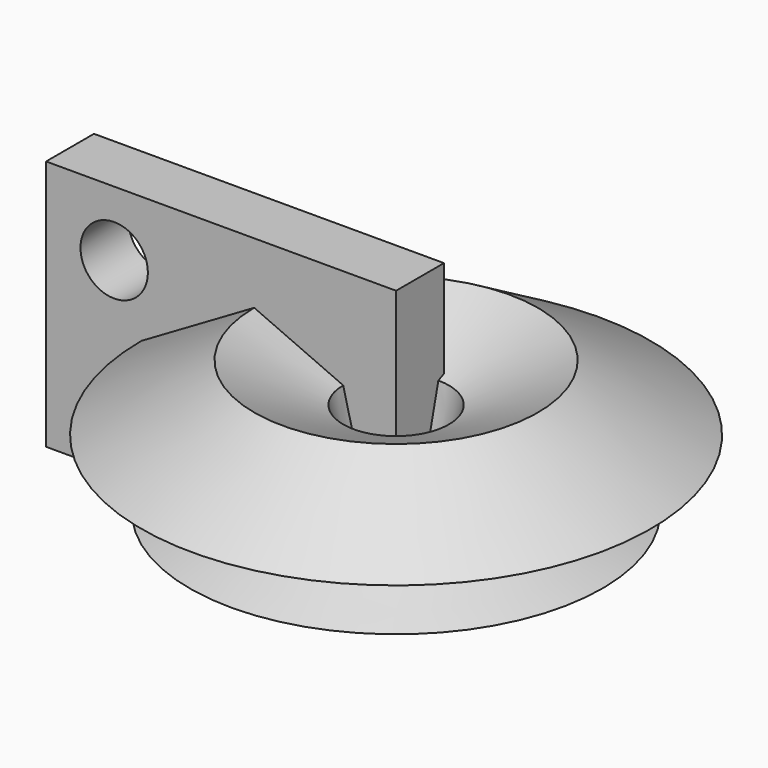
from build123d import *

# Parameters (mm, degrees)
F0_W     = 58.45416
F0_H     = 41.958041
F1_DEPTH = 10
F2_R     = 5.628683
F3_DEPTH = 10.001


with BuildPart() as f1:
    # F0 (on Front) → F1 (new body)
    with BuildSketch(Plane.XZ):
        with Locations((29.22708, 20.979021)):
            Rectangle(F0_W, F0_H)
    extrude(amount=F1_DEPTH)

    # F2 (on face) → F3 (cut, through all)
    with BuildSketch(Plane.XZ.offset(10)):
        with Locations((11.372562, 31.127132)):
            Circle(F2_R)
    extrude(amount=-F3_DEPTH, mode=Mode.SUBTRACT)

    # F4 (on face) → F5 (revolve)
    with BuildSketch(Plane.XZ.offset(10)):
        Polygon((49.627889, 25.171686), (34.761366, 31.748787), (15.927874, 20.762276), (35.032336, 13.681269), (23.995256, 9.382639), (54.431368, 5.763666), align=None)
    revolve(axis=Axis((58.45416, -10, 20.979021), (0, 0, -1)))


solid = f1.part
